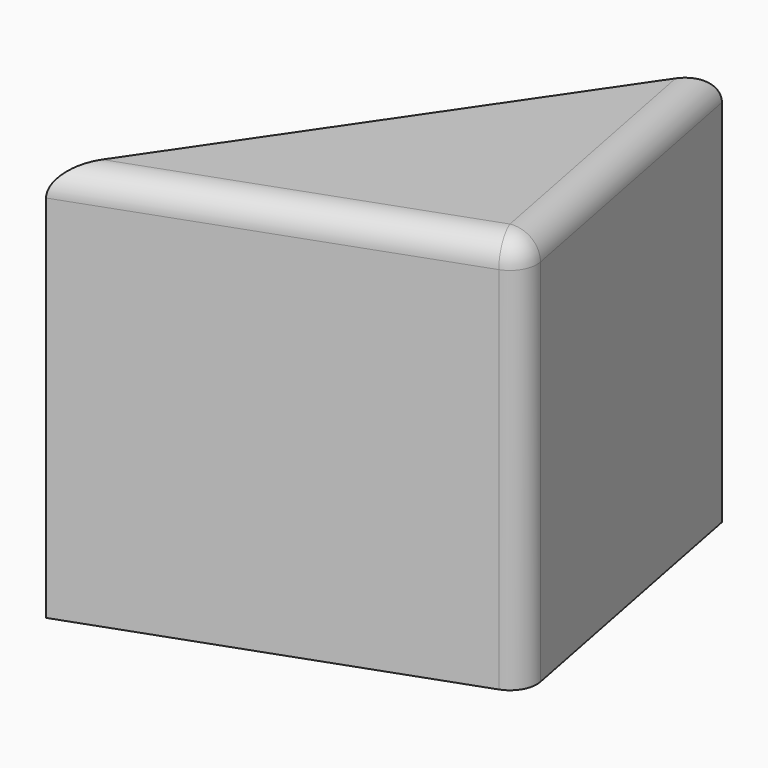
from build123d import *

# Parameters (mm, degrees)
F1_DEPTH = 74.941553
F2_R     = 5.08


with BuildPart() as f1:
    # F0 (on Top) → F1 (new body)
    with BuildSketch(Plane.XY):
        Polygon((38.159072, -25.193825), (26.372492, 35.654426), (-32.41311, -50.534979), align=None)
    extrude(amount=F1_DEPTH)

    # F2
    f2_edges = [f1.edges().sort_by_distance(p)[0] for p in [
        (2.872981, -37.864402, 74.941553),
        (32.265782, 5.2303, 74.941553),
        (38.159072, -25.193825, 37.470777),
    ]]
    fillet(f2_edges, radius=F2_R)


solid = f1.part
